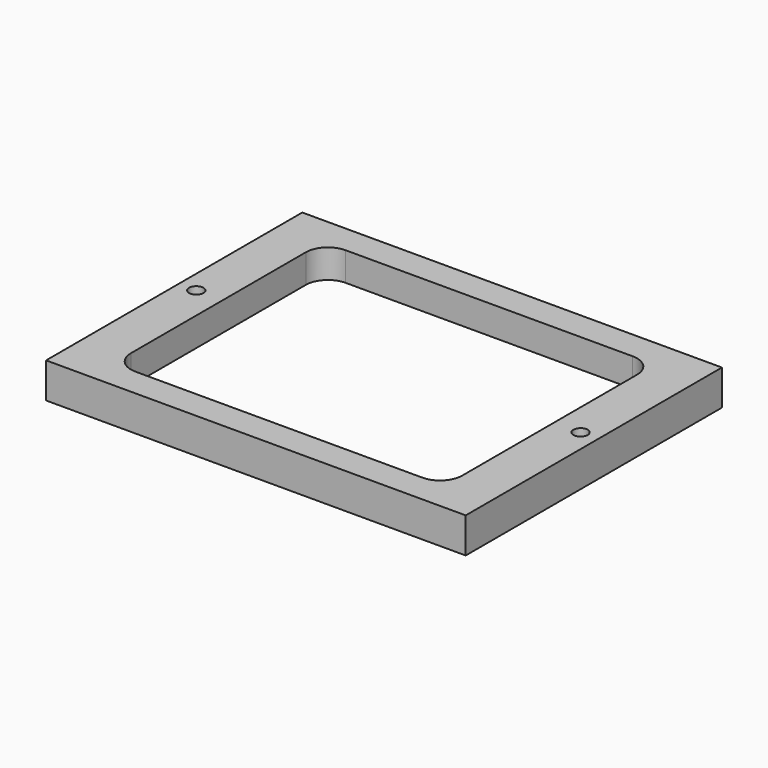
from build123d import *

# Parameters (mm, degrees)
CYLINDER_R     = 3.25
CYLINDER_DEPTH = 26
ARRAY_X_COUNT  = 2
ARRAY_X_PITCH  = 174
BOX002_W       = 170
BOX002_H       = 140
BOX002_DEPTH   = 3
BOX001_W       = 150
BOX001_H       = 119
BOX001_DEPTH   = 16
BOX_W          = 190
BOX_H          = 145
BOX_DEPTH      = 16
FILLET_R       = 10


with BuildPart() as array:
    # Cylinder → Cylinder (new body)
    with BuildSketch(Plane(origin=(8, 75, 0), x_dir=(1, 0, 0), z_dir=(0, 0, 1))):
        Circle(CYLINDER_R)
    extrude(amount=CYLINDER_DEPTH)

    # Array X: Array ×2


with BuildPart() as array_1:
    add(array.part)
    with Locations(*[(i * ARRAY_X_PITCH, 0, 0) for i in range(1, ARRAY_X_COUNT)]):
        add(array.part)


with BuildPart() as cubo001:
    # Box002 → Box002 (new body)
    with BuildSketch(Plane(origin=(10, 3, 0), x_dir=(1, 0, 0), z_dir=(0, 0, 1))):
        with Locations((85, 70)):
            Rectangle(BOX002_W, BOX002_H)
    extrude(amount=BOX002_DEPTH)


with BuildPart() as fusion:
    # Box001 → Box001 (new body)
    with BuildSketch(Plane(origin=(20, 13, 0), x_dir=(1, 0, 0), z_dir=(0, 0, 1))):
        with Locations((75, 59.5)):
            Rectangle(BOX001_W, BOX001_H)
    extrude(amount=BOX001_DEPTH)

    # Fusion: union Cubo001
    add(cubo001.part)


with BuildPart() as fillet_body:
    # Box → Box (new body)
    with BuildSketch(Plane.XY):
        with Locations((95, 72.5)):
            Rectangle(BOX_W, BOX_H)
    extrude(amount=BOX_DEPTH)

    # Cut: cut Fusion
    add(fusion.part, mode=Mode.SUBTRACT)

    # Cut001: cut Array
    add(array_1.part, mode=Mode.SUBTRACT)

    # Fillet
    fillet_edges = [fillet_body.edges().sort_by_distance(p)[0] for p in [
        (170, 132, 9.5),
        (20, 132, 9.5),
        (170, 13, 9.5),
        (20, 13, 9.5),
    ]]
    fillet(fillet_edges, radius=FILLET_R)


solid = fillet_body.part
